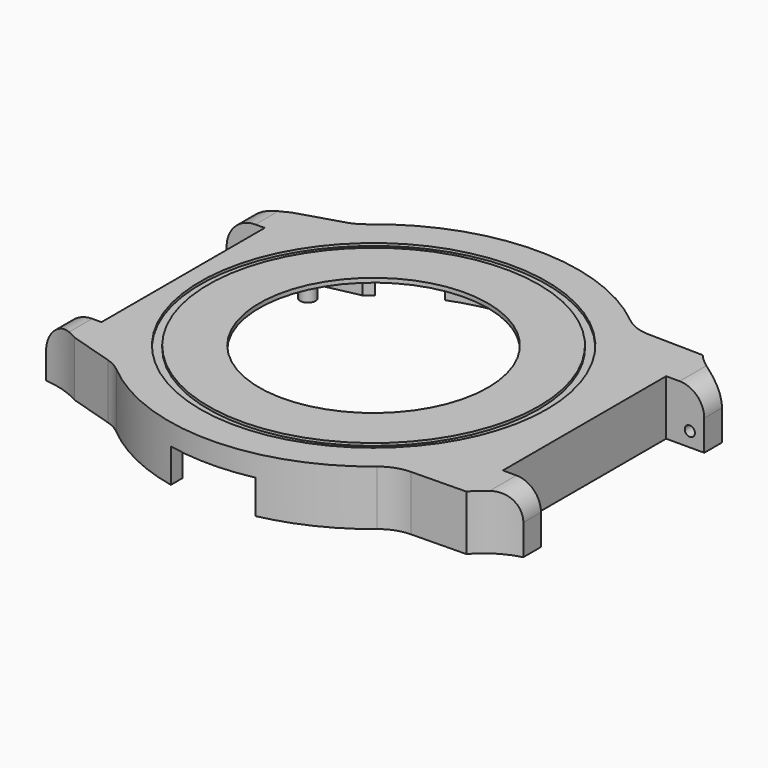
from build123d import *

# Parameters (mm, degrees)
PAD_DEPTH       = 6.5
POCKET_DEPTH    = 6
SKETCH002_R     = 13.5
POCKET001_DEPTH = 1
SKETCH003_W     = 5.4
SKETCH003_H     = 6.5
PAD001_DEPTH    = 4.5
POCKET002_DEPTH = 10
SKETCH008_R     = 0.6
POCKET003_DEPTH = 2
SKETCH009_R     = 0.6
POCKET004_DEPTH = 2
FILLET_R        = 2.9
FILLET001_R     = 2.9
FILLET002_R     = 5
FILLET003_R     = 5
FILLET004_R     = 5
FILLET005_R     = 5
SKETCH010_W     = 3.95
SKETCH010_H     = 6.5
PAD002_DEPTH    = 4.5
POCKET005_DEPTH = 10
SKETCH012_R     = 0.6
POCKET006_DEPTH = 2
SKETCH013_R     = 0.6
POCKET007_DEPTH = 2
FILLET006_R     = 3.4
FILLET007_R     = 3.4
SKETCH014_R     = 20.45
SKETCH014_R_2   = 19.5
POCKET008_DEPTH = 0.3
SKETCH015_R     = 0.9
PAD003_DEPTH    = 6
FILLET008_R     = 1
POCKET009_DEPTH = 4
POCKET010_DEPTH = 4


with BuildPart() as part:
    # Sketch → Pad (new body)
    with BuildSketch(Plane.XY):
        with BuildLine():
            Line((-22.5019915649, 16), (-22.5019915649, -16))
            Line((-22.5019915649, -16), (-16.2858834578, -17.9000000001))
            ThreePointArc((-16.2858834577, -17.9000000001), (0.2206895737, -24.1989937004), (16.6096357576, -17.5999999999))
            Line((16.6096357576, -17.6), (24.9082802252, -17.45))
            Line((24.9082802252, 17.45), (24.9082802252, -17.45))
            Line((16.6096357576, 17.6), (24.9082802252, 17.45))
            ThreePointArc((16.6096357576, 17.6), (0.2206895736, 24.1989937004), (-16.2858834578, 17.9))
            Line((-22.5019915649, 16), (-16.2858834578, 17.9))
        make_face()
    extrude(amount=PAD_DEPTH)

    # Sketch001 → Pocket (cut)
    with BuildSketch(Plane.XY):
        with BuildLine():
            Line((-14.8539557021, 16.9), (-21.2122180433, 15.55))
            Line((-21.2122180433, 15.55), (-21.2122180433, -15.55))
            Line((-21.2122180433, -15.55), (-14.8539557021, -16.9))
            ThreePointArc((-14.8539557021, -16.9), (-0.0760301383, -22.4998715423), (14.739402973, -17))
            Line((14.739402973, -17), (23.6191552218, -16.4))
            Line((23.6191552218, 16.4), (23.6191552218, -16.4))
            Line((14.739402973, 17), (23.6191552218, 16.4))
            ThreePointArc((14.739402973, 17), (-0.0760301383, 22.4998715423), (-14.8539557021, 16.9))
        make_face()
    extrude(amount=POCKET_DEPTH, mode=Mode.SUBTRACT)

    # Sketch002 (on Face19 of Pocket) → Pocket001 (cut)
    with BuildSketch(Plane(origin=(0, 0, 6), x_dir=(1, 0, 0), z_dir=(0, 0, -1))):
        Circle(SKETCH002_R)
    extrude(amount=-POCKET001_DEPTH, mode=Mode.SUBTRACT)

    # Sketch003 (on Face6 of Pocket001) → Pad001 (join)
    with BuildSketch(Plane.YZ.offset(24.9082802252)):
        with Locations((-14.75, 3.25)):
            Rectangle(SKETCH003_W, SKETCH003_H)
        with Locations((14.75, 3.25)):
            Rectangle(SKETCH003_W, SKETCH003_H)
    extrude(amount=PAD001_DEPTH)

    # Sketch006 → Pocket002 (cut)
    with BuildSketch(Plane.XY.offset(6.5)):
        with BuildLine():
            ThreePointArc((24.9082802253, 17.45), (26.9423471239, 15.7065020586), (29.4082802252, 14.6594169812))
            Line((29.4082802252, 17.45), (29.4082802252, 14.6594169812))
            Line((29.4082802252, 17.45), (24.9082802252, 17.45))
        make_face()
        with BuildLine():
            ThreePointArc((29.4082802253, -14.6594169812), (26.9423471239, -15.7065020586), (24.9082802253, -17.45))
            Line((29.4082802252, -17.45), (24.9082802252, -17.45))
            Line((29.4082802252, -14.6594169811), (29.4082802252, -17.45))
        make_face()
    extrude(amount=-POCKET002_DEPTH, mode=Mode.SUBTRACT)

    # Sketch008 (on Face27 of Pocket002) → Pocket003 (cut)
    with BuildSketch(Plane(origin=(0, -12.05, 0), x_dir=(-1, 0, 0), z_dir=(0, 1, 0))):
        with Locations((-27.7082802252, 1.7)):
            Circle(SKETCH008_R)
    extrude(amount=-POCKET003_DEPTH, mode=Mode.SUBTRACT)

    # Sketch009 (on Face26 of Pocket003) → Pocket004 (cut)
    with BuildSketch(Plane.XZ.offset(-12.05)):
        with Locations((27.7082802252, 1.7)):
            Circle(SKETCH009_R)
    extrude(amount=-POCKET004_DEPTH, mode=Mode.SUBTRACT)

    # Fillet
    fillet_edges = [part.edges().sort_by_distance(p)[0] for p in [
        (29.40828, -13.354708, 6.5),
    ]]
    fillet(fillet_edges, radius=FILLET_R)

    # Fillet001
    fillet001_edges = [part.edges().sort_by_distance(p)[0] for p in [
        (29.40828, 13.354708, 6.5),
    ]]
    fillet(fillet001_edges, radius=FILLET001_R)

    # Fillet002
    fillet002_edges = [part.edges().sort_by_distance(p)[0] for p in [
        (16.609636, -17.6, 3.25),
    ]]
    fillet(fillet002_edges, radius=FILLET002_R)

    # Fillet003
    fillet003_edges = [part.edges().sort_by_distance(p)[0] for p in [
        (16.609636, 17.6, 3.25),
    ]]
    fillet(fillet003_edges, radius=FILLET003_R)

    # Fillet004
    fillet004_edges = [part.edges().sort_by_distance(p)[0] for p in [
        (-16.285883, -17.9, 3.25),
    ]]
    fillet(fillet004_edges, radius=FILLET004_R)

    # Fillet005
    fillet005_edges = [part.edges().sort_by_distance(p)[0] for p in [
        (-16.285883, 17.9, 3.25),
    ]]
    fillet(fillet005_edges, radius=FILLET005_R)

    # Sketch010 (on Face4 of Fillet005) → Pad002 (join)
    with BuildSketch(Plane(origin=(-22.5019915649, 0, 0), x_dir=(0, -1, 0), z_dir=(-1, 0, 0))):
        with Locations((-14.025, 3.25)):
            Rectangle(SKETCH010_W, SKETCH010_H)
        with Locations((14.025, 3.25)):
            Rectangle(SKETCH010_W, SKETCH010_H)
    extrude(amount=PAD002_DEPTH)

    # Sketch011 (on Face6 of Pad002) → Pocket005 (cut)
    with BuildSketch(Plane.XY.offset(6.5)):
        with BuildLine():
            ThreePointArc((-27.0019915649, 14.6), (-24.6759937451, 15.0557212933), (-22.5019915649, 16))
            Line((-22.5019915649, 16), (-27.0019915649, 16))
            Line((-27.0019915649, 16), (-27.0019915649, 14.6))
        make_face()
        with BuildLine():
            ThreePointArc((-22.5019915649, -16), (-24.6759937451, -15.0557212933), (-27.0019915649, -14.6))
            Line((-27.0019915649, -14.6), (-27.0019915649, -16))
            Line((-27.0019915649, -16), (-22.5019915649, -16))
        make_face()
    extrude(amount=-POCKET005_DEPTH, mode=Mode.SUBTRACT)

    # Sketch012 (on Face23 of Pocket005) → Pocket006 (cut)
    with BuildSketch(Plane(origin=(0, -12.05, 0), x_dir=(-1, 0, 0), z_dir=(0, 1, 0))):
        with Locations((25.3019915649, 1.7)):
            Circle(SKETCH012_R)
    extrude(amount=-POCKET006_DEPTH, mode=Mode.SUBTRACT)

    # Sketch013 (on Face21 of Pocket006) → Pocket007 (cut)
    with BuildSketch(Plane.XZ.offset(-12.05)):
        with Locations((-25.3019915649, 1.7)):
            Circle(SKETCH013_R)
    extrude(amount=-POCKET007_DEPTH, mode=Mode.SUBTRACT)

    # Fillet006
    fillet006_edges = [part.edges().sort_by_distance(p)[0] for p in [
        (-27.001992, 13.325, 6.5),
    ]]
    fillet(fillet006_edges, radius=FILLET006_R)

    # Fillet007
    fillet007_edges = [part.edges().sort_by_distance(p)[0] for p in [
        (-27.001992, -13.325, 6.5),
    ]]
    fillet(fillet007_edges, radius=FILLET007_R)

    # Sketch014 (on Face4 of Fillet007) → Pocket008 (cut)
    with BuildSketch(Plane.XY.offset(6.5)):
        Circle(SKETCH014_R)
        Circle(SKETCH014_R_2, mode=Mode.SUBTRACT)
    extrude(amount=-POCKET008_DEPTH, mode=Mode.SUBTRACT)

    # Sketch015 (on Face55 of Pocket008) → Pad003 (join)
    with BuildSketch(Plane(origin=(0, 0, 6), x_dir=(1, 0, 0), z_dir=(0, 0, -1))):
        with Locations((-18.42, 13.32)):
            Circle(SKETCH015_R)
        with Locations((-18.42, -13.32)):
            Circle(SKETCH015_R)
        with Locations((7.27, 18.56)):
            Circle(SKETCH015_R)
        with Locations((5.37, -19.79)):
            Circle(SKETCH015_R)
    extrude(amount=PAD003_DEPTH)

    # Fillet008
    fillet008_edges = [part.edges().sort_by_distance(p)[0] for p in [
        (-19.32, -13.32, 6),
        (6.37, -18.56, 6),
        (-19.32, 13.32, 6),
        (4.47, 19.79, 6),
    ]]
    fillet(fillet008_edges, radius=FILLET008_R)

    # Sketch016 (on Face16 of Fillet008) → Pocket009 (cut)
    with BuildSketch(Plane(origin=(0, 0, 0), x_dir=(1, 0, 0), z_dir=(0, 0, -1))):
        with BuildLine():
            Line((-5, 23.6778377391), (-5, 21.9374109685))
            ThreePointArc((5, 21.9374109685), (0, 22.5), (-5, 21.9374109685))
            Line((5, 23.6778377391), (5, 21.9374109685))
            ThreePointArc((5, 23.6778377391), (0, 24.2), (-5, 23.6778377391))
        make_face()
    extrude(amount=-POCKET009_DEPTH, mode=Mode.SUBTRACT)

    # Sketch017 (on Face16 of Pocket009) → Pocket010 (cut)
    with BuildSketch(Plane(origin=(0, 0, 0), x_dir=(1, 0, 0), z_dir=(0, 0, -1))):
        with BuildLine():
            Line((-3.499984119, -22.2261132717), (-3.5, -23.9455632634))
            ThreePointArc((-3.5, -23.9455632634), (0, -24.2000019575), (3.5, -23.9455632634))
            Line((3.5000158811, -22.2261082701), (3.5, -23.9455632634))
            ThreePointArc((-3.499984119, -22.2261132717), (1.60767e-05, -22.5), (3.5000158811, -22.2261082701))
        make_face()
        with BuildLine():
            ThreePointArc((-13.9498796389, -17.6536358312), (-11.25, -19.4855715851), (-8.3135572795, -20.9077680626))
            Line((-8.3135572795, -20.9077680626), (-8.9416927184, -22.487466094))
            ThreePointArc((-15.0038705449, -18.987466094), (-12.1, -20.9578147716), (-8.9416927184, -22.487466094))
            Line((-13.9498796389, -17.6536358312), (-15.0038705449, -18.987466094))
        make_face()
        with BuildLine():
            ThreePointArc((8.3135572795, -20.9077680626), (11.25, -19.4855715851), (13.9498796389, -17.6536358312))
            Line((13.9498796389, -17.6536358312), (15.0038705449, -18.987466094))
            ThreePointArc((8.9416927184, -22.487466094), (12.1, -20.9578147716), (15.0038705449, -18.987466094))
            Line((8.3135572795, -20.9077680626), (8.9416927184, -22.487466094))
        make_face()
    extrude(amount=-POCKET010_DEPTH, mode=Mode.SUBTRACT)


solid = part.part
